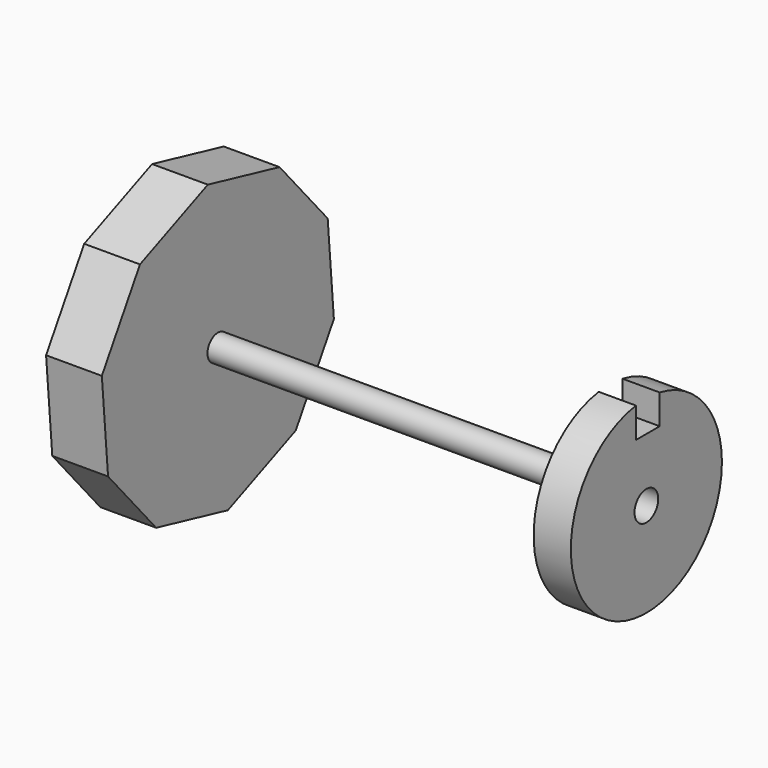
from build123d import *

# Parameters (mm, degrees)
F1_DEPTH = 15
F2_R     = 3.5
F3_DEPTH = 105.259314
F4_R     = 3.984054
F5_DEPTH = 10


with BuildPart() as f1:
    # F0 (on Right) → F1 (new body)
    with BuildSketch(Plane.YZ):
        Polygon((26.189362, -30.314648), (39.006142, -9.131345), (36.923901, 15.539822), (20.737985, 34.275305), (-3.369136, 39.918786), (-26.189362, 30.314648), (-39.006142, 9.131345), (-36.923901, -15.539822), (-20.737985, -34.275305), (3.369136, -39.918786), align=None)
    extrude(amount=F1_DEPTH)

    # F2 (on face) → F3 (join)
    with BuildSketch(Plane.YZ.offset(15)):
        Circle(F2_R)
    extrude(amount=F3_DEPTH)


with BuildPart() as f5:
    # F4 (on face) → F5 (new body)
    with BuildSketch(Plane.YZ.offset(120.259314)):
        with BuildLine():
            ThreePointArc((-3.515521, 25.155538), (-16.671319, -19.163171), (25.4, 0))
            ThreePointArc((25.4, 0), (19.481604, 16.298071), (4.484479, 25.000989))
            Line((4.484479, 25.000989), (4.484479, 17.000989))
            Line((4.484479, 17.000989), (-3.515521, 17.000989))
            Line((-3.515521, 17.000989), (-3.515521, 25.155538))
        make_face()
        Circle(F4_R, mode=Mode.SUBTRACT)
    extrude(amount=F5_DEPTH)


solid = Compound([f1.part, f5.part])
